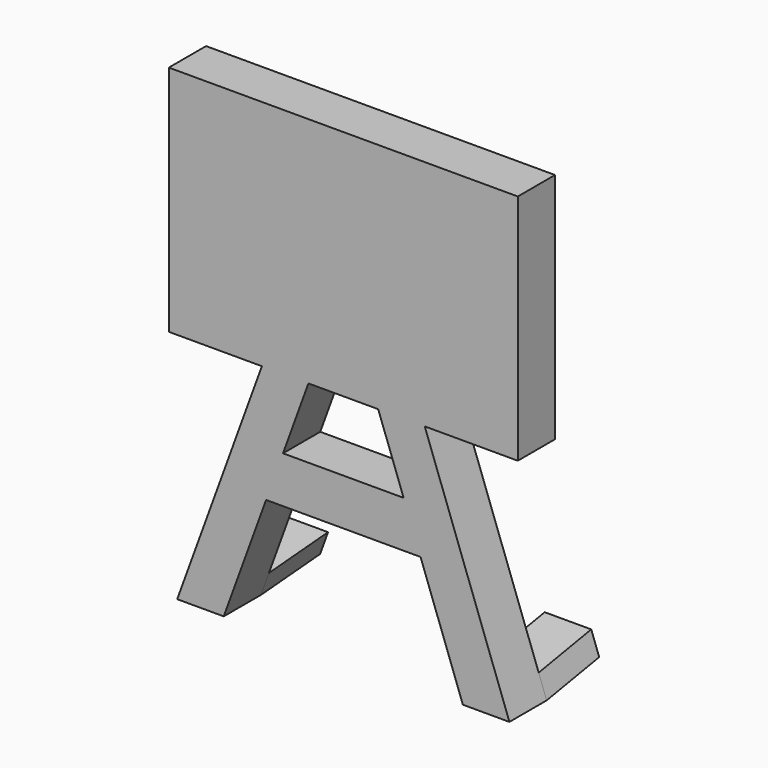
from build123d import *

# Parameters (mm, degrees)
F1_DEPTH = 2.54


with BuildPart() as f1:
    # F0 (on Front) → F1 (new body)
    with BuildSketch(Plane.XZ):
        Polygon((-9.525, 6.35), (-9.525, -6.35), (-4.445, -6.35), (-9.067422, -19.05), (-6.527422, -19.05), (-4.216211, -12.7), (4.216211, -12.7), (6.527422, -19.05), (9.067422, -19.05), (4.445, -6.35), (9.525, -6.35), (9.525, 6.35), align=None)
        Polygon((-1.905, -6.35), (1.905, -6.35), (3.291727, -10.16), (-3.291727, -10.16), align=None, mode=Mode.SUBTRACT)
    extrude(amount=F1_DEPTH)

    # F4 (on offset) → F5 section 0
    with BuildSketch(Plane.XZ.offset(-3.81)):
        Polygon((-5.912923, -17.383784), (-8.452923, -17.383784), (-8.887289, -18.577194), (-6.347289, -18.577194), align=None)
    # F2 (on face) → F5 section 1
    with BuildSketch(Plane(origin=(0, 0, 0), x_dir=(-1, 0, 0), z_dir=(0, 1, 0))):
        Polygon((8.633056, -17.85659), (6.093056, -17.85659), (6.527422, -19.05), (9.067422, -19.05), align=None)
    loft()

    # F4 (on offset) → F6 section 0
    with BuildSketch(Plane.XZ.offset(-3.81)):
        Polygon((8.887289, -18.577194), (8.452923, -17.383784), (5.912923, -17.383784), (6.347289, -18.577194), align=None)
    # F2 (on face) → F6 section 1
    with BuildSketch(Plane(origin=(0, 0, 0), x_dir=(-1, 0, 0), z_dir=(0, 1, 0))):
        Polygon((-8.633056, -17.85659), (-9.067422, -19.05), (-6.527422, -19.05), (-6.093056, -17.85659), align=None)
    loft()


solid = f1.part
